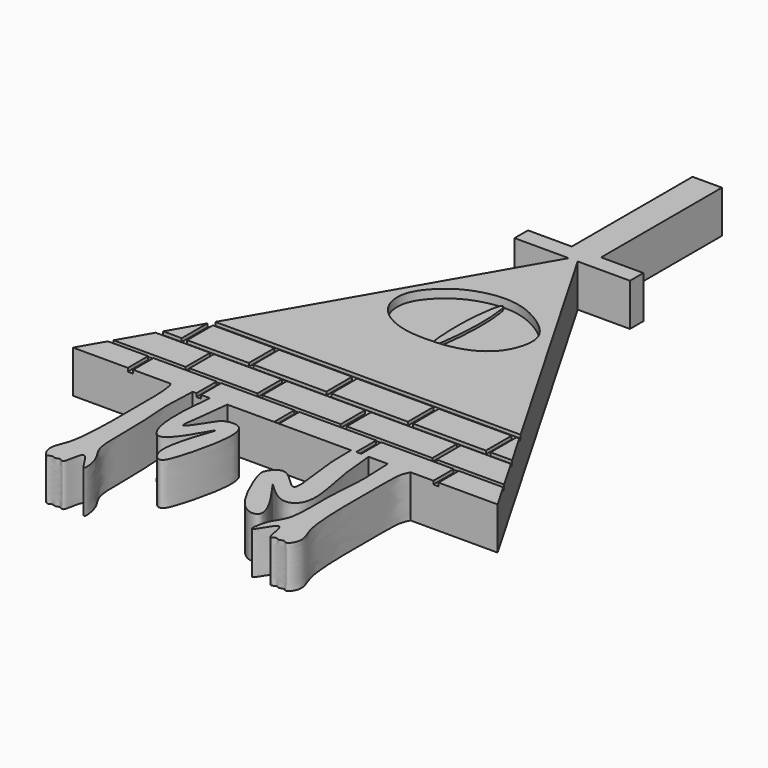
from build123d import *

# Parameters (mm, degrees)
F0_W     = 5.1555768587
F0_H     = 1.9764080644
F0_W_2   = 4.9801938003
F0_W_3   = 3.4587095724
F0_H_2   = 17.7876465023
F1_DEPTH = 5
F3_DEPTH = 1
F5_DEPTH = 0.3
F6_W     = 0.6202943623
F6_H     = 2.9812904685
F6_W_2   = 0.4511214793
F6_H_2   = 3.5945932627
F6_W_3   = 0.6402105058
F6_H_3   = 3.7887892984
F6_W_4   = 0.4784865305
F6_W_5   = 0.5582347512
F7_DEPTH = 0.4
F8_W     = 0.5327984691
F8_H     = 3.7887892984
F8_W_2   = 0.5985439639
F8_W_3   = 0.5867718719
F8_H_2   = 3.5876911134
F8_W_4   = 0.5364771932
F8_H_3   = 3.0344488973
F8_W_5   = 0.5700066104
F8_H_4   = 3.0009191614
F8_W_6   = 0.5867723376
F8_H_5   = 3.0009190596
F8_W_7   = 0.6035361439
F8_H_6   = 3.0344488368
F8_W_8   = 0.7041264325
F8_H_7   = 3.8559294771
F8_W_9   = 0.6203018129
F8_H_8   = 4.2415224016
F9_DEPTH = 0.4


with BuildPart() as f1:
    # F0 (on Top) → F1 (new body)
    with BuildSketch(Plane.XY):
        Polygon((-0.5237962453, 42.392436415), (0, 43.2997421549), (-0.5239071529, 42.392436415), align=None)
        Polygon((-0.5239071529, 42.392436415), (0, 43.2997421549), (0.5239071529, 42.392436415), (1.7018496292, 42.392436415), (1.7018496292, 44.3688444793), (-1.7568599433, 44.3688444793), (-1.7568599433, 42.392436415), align=None)
        Polygon((0.5239071529, 42.392436415), (0, 43.2997421549), (-0.5237962453, 42.392436415), align=None)
        Polygon((25.0026464462, 0), (0.5239071529, 42.392436415), (-0.5237962453, 42.392436415), (-24.9973535538, 0), (-13.5034514803, 0), (-10.9088107712, 0), (-8.9024212211, 0), (-6.8273255602, 0), (7.7385172022, 0), (9.8083302301, 0), (12.0734038177, 0), (14.7498230277, 0), align=None)
        with Locations((-4.3346483726, 43.3806404471)):
            Rectangle(F0_W, F0_H)
        with Locations((4.1919465293, 43.3806404471)):
            Rectangle(F0_W_2, F0_H)
        with Locations((-0.027505157, 53.2626677305)):
            Rectangle(F0_W_3, F0_H_2)
        with BuildLine():
            add(Edge.make_bspline(
                [(12.0734038177, 0), (12.1700652269, -1.477826255), (12.3366505249, -4.4402676188), (11.7614927275, -8.1640583262), (12.1795675256, -14.2684113404), (10.5152433863, -15.5421516446), (10.0406614974, -19.3586837546), (12.4083061102, -14.1425769065), (12.4477018974, -18.6558139703), (13.2736578918, -17.7631134849), (13.6796971655, -18.1825728083), (14.2083416361, -17.7870688496), (14.6609292387, -18.3934551385), (15.6486915503, -16.8855128183), (14.817234783, -15.2059113737), (14.4250365101, -13.46535209), (14.1804166756, -9.6145735029), (14.3029197368, -4.6979299564), (14.165607463, -1.2632768604), (14.5821918319, -0.3549519845), (14.7341013093, -0.0288623031), (14.7498230277, 0)],
                knots=[0.0004319384, 0.0004319384, 0.0004319384, 0.0004319384, 0.0782424273, 0.153800604, 0.2427449656, 0.3000032199, 0.3505753589, 0.4097252157, 0.4655100081, 0.493073811, 0.518239166, 0.5450078504, 0.5701679733, 0.6129620927, 0.6633566361, 0.7130603053, 0.7861146423, 0.8718565462, 0.9403422504, 0.9804530964, 0.9849282254, 0.9849282254, 0.9849282254, 0.9849282254], degree=3))
            Line((14.7498230277, 0), (12.0734038177, 0))
        make_face()
        with BuildLine():
            Line((-10.9088107712, 0), (-13.5034514803, 0))
            add(Edge.make_bspline(
                [(-10.9088107712, 0), (-11.0057075196, -1.6076779232), (-11.1745404211, -4.536562176), (-10.5977952902, -8.3057694955), (-11.0154517537, -14.4028255245), (-9.3512022225, -15.6778672361), (-8.8766049723, -19.4941313226), (-11.2442541145, -14.2781038128), (-11.2836488855, -18.7913221382), (-12.10960486, -17.8986232734), (-12.5156445522, -18.3180843348), (-13.0442873295, -17.922572153), (-13.4968823807, -18.5289949649), (-14.4845941721, -17.0208047683), (-13.6533758342, -15.3423732197), (-13.2601345759, -13.5966963269), (-13.0215974359, -9.7757636652), (-13.1178407814, -4.7302717046), (-13.0511875796, -1.6114246319), (-13.3506863225, -0.1622526976), (-13.5034514803, 0)],
                knots=[0.0002898926, 0.0002898926, 0.0002898926, 0.0002898926, 0.0790212957, 0.1542290848, 0.2427609827, 0.299753712, 0.3500913317, 0.4089668916, 0.4644929919, 0.4919289726, 0.5169776277, 0.5436221771, 0.5686656244, 0.6112612937, 0.6614221413, 0.7108953186, 0.7836108791, 0.8689551702, 0.937123284, 0.9792128244, 0.9792128244, 0.9792128244, 0.9792128244], degree=3))
        make_face()
        with BuildLine():
            add(Edge.make_bspline(
                [(7.7385172022, 0), (7.7486716886, -1.3398712462), (7.6865955293, -3.8544560709), (9.0858695098, -11.0379879346), (5.7069449364, -6.1300650339), (4.0136453382, -8.1748440604), (4.0847936301, -9.2620602996), (6.6505176586, -15.8038164307), (10.6846310882, -15.3443197035), (4.5680391502, -7.6384667145), (8.7351283912, -12.4720105519), (11.8246521156, -10.8170377409), (10.0950807766, -4.6122172742), (9.937490037, -1.2172522744), (9.8083302301, 0)],
                knots=[0, 0, 0, 0, 0.0942536296, 0.1884129262, 0.2664747356, 0.3244837685, 0.3736115745, 0.4885065129, 0.545680206, 0.6515452333, 0.72664808, 0.7947713482, 0.9035091315, 1, 1, 1, 1], degree=3))
            Line((9.8083302301, 0), (7.7385172022, 0))
        make_face()
        with BuildLine():
            Line((-6.8273255602, 0), (-8.9024212211, 0))
            add(Edge.make_bspline(
                [(-8.9024212211, 0), (-9.1907642785, -3.0033720609), (-9.5135077937, -7.3050672033), (-7.2027376886, -10.0410421761), (-2.7884020038, -1.0444534524), (-6.885632451, -10.7517584556), (-4.7049415835, -13.0508549855), (-3.6579539996, -10.6032838109), (-1.6590676451, -2.3609450623), (-4.9533419054, -2.562990685), (-5.6218491735, -3.3020651782), (-8.2684232058, -7.7625287315), (-7.0797335951, -3.2640721874), (-6.8273255602, 0)],
                knots=[0, 0, 0, 0, 0.1316959772, 0.1952895732, 0.3015222484, 0.4189816161, 0.488553194, 0.5566423207, 0.6880279836, 0.752099547, 0.8053020826, 0.8852667817, 1, 1, 1, 1], degree=3))
        make_face()
    extrude(amount=F1_DEPTH)

    # F2 (on face) → F3 (cut)
    with BuildSketch(Plane.XY.offset(5)):
        with BuildLine():
            add(Edge.make_bspline(
                [(-7.9532610252, 26.9699245691), (-7.8323923244, 27.8957184535), (-6.8166573395, 29.6126143534), (-4.1432819529, 31.77771641), (-0.0632411183, 32.7573994407), (3.446330671, 31.8864626716), (6.6598570974, 29.6150317806), (7.5492875013, 27.2985029154), (6.4390274003, 23.8318835876), (3.282491896, 21.9053190537), (-0.4046085708, 21.5251999201), (-4.110036634, 21.732940582), (-7.5160687452, 23.7169960292), (-8.0794283796, 26.0035456449), (-7.9532610252, 26.9699245691)],
                knots=[0, 0, 0, 0, 0.0754950122, 0.15896651, 0.2500422161, 0.3363290294, 0.4240383722, 0.4924871028, 0.5749449679, 0.6600543184, 0.7468430609, 0.8341844508, 0.9211954303, 1, 1, 1, 1], degree=3))
        make_face()
    extrude(amount=-F3_DEPTH, mode=Mode.SUBTRACT)

    # F6 (on face) → F7 (cut)
    with BuildSketch(Plane.XY.offset(5)):
        Polygon((-22.9938786092, 3.470365306), (-23.276226171, 2.9812904685), (-18.5381863266, 2.9812904685), (-17.9178919643, 2.9812904685), (-10.4461899027, 2.9812904685), (-9.9056159966, 2.9812904685), (-1.3191275066, 2.9812904685), (-0.7608930464, 2.9812904685), (8.3303563297, 2.9812904685), (8.8885920122, 2.9812904685), (17.4614805728, 2.9812904685), (18.019715324, 2.9812904685), (23.2811546352, 2.9812904685), (22.9987472896, 3.470365306), (15.0291733444, 3.470365306), (14.5506868139, 3.470365306), (4.4625885785, 3.470365306), (3.7371646613, 3.470365306), (-5.4556559771, 3.470365306), (-6.0477536172, 3.470365306), (-14.0551645309, 3.470365306), (-14.5062860101, 3.470365306), align=None)
        with Locations((-18.2280391455, 1.4906452343)):
            Rectangle(F6_W, F6_H)
        with Locations((-14.2807252705, 5.2676619373)):
            Rectangle(F6_W_2, F6_H_2)
        Polygon((-20.918685682, 7.0649585687), (-14.5062860101, 7.0649585687), (-14.0551645309, 7.0649585687), (-6.0477536172, 7.0649585687), (-5.4556559771, 7.0649585687), (3.7371646613, 7.0649585687), (4.4625885785, 7.0649585687), (14.5506868139, 7.0649585687), (15.0291733444, 7.0649585687), (20.923114965, 7.0649585687), (20.5523952678, 7.7069732983), (18.019715324, 7.7069732983), (17.4614805728, 7.7069732983), (8.8885920122, 7.7069732983), (8.3303563297, 7.7069732983), (-0.7608930464, 7.7069732983), (-1.3191275066, 7.7069732983), (-9.9056159966, 7.7069732983), (-10.4461899027, 7.7069732983), (-17.7205298096, 7.7069732983), (-18.3607403154, 7.7069732983), (-20.5480444637, 7.7069732983), align=None)
        with Locations((-18.0406350625, 9.6013679476)):
            Rectangle(F6_W_3, F6_H_3)
        Polygon((-17.9717051929, 12.1696387516), (-18.3607403154, 11.4957625968), (-17.7205298096, 11.4957625968), (-10.4461899027, 11.4957625968), (-9.9056159966, 11.4957625968), (-1.3191275066, 11.4957625968), (-0.7608930464, 11.4957625968), (8.3303563297, 11.4957625968), (8.8885920122, 11.4957625968), (17.4614805728, 11.4957625968), (18.019715324, 11.4957625968), (18.3646279839, 11.4957625968), (17.9755104878, 12.1696387516), align=None)
        with Locations((14.7899300791, 5.2676619373)):
            Rectangle(F6_W_4, F6_H_2)
        with Locations((17.7405979484, 9.6013679476)):
            Rectangle(F6_W_5, F6_H_3)
    extrude(amount=-F7_DEPTH, mode=Mode.SUBTRACT)

    # F8 (on face) → F9 (cut)
    with BuildSketch(Plane.XY.offset(5)):
        with Locations((-10.1962490007, 9.6013679476)):
            Rectangle(F8_W, F8_H)
        with Locations((-1.0303525778, 9.6013679476)):
            Rectangle(F8_W_2, F8_H)
        with Locations((-5.7615952101, 5.2641718648)):
            Rectangle(F8_W_3, F8_H_2)
        with Locations((-10.1959146559, 1.5172142564)):
            Rectangle(F8_W_4, F8_H_3)
        with Locations((-1.0255077214, 1.5172143867)):
            Rectangle(F8_W_5, F8_H_4)
        with Locations((8.6226984859, 1.5339791753)):
            Rectangle(F8_W_6, F8_H_5)
        with Locations((17.7511936054, 1.5004493162)):
            Rectangle(F8_W_7, F8_H_6)
        with Locations((4.1045551188, 5.2306420403)):
            Rectangle(F8_W_8, F8_H_7)
        with Locations((8.5891690105, 9.6817258745)):
            Rectangle(F8_W_9, F8_H_8)
    extrude(amount=-F9_DEPTH, mode=Mode.SUBTRACT)


with BuildPart() as f5:
    # F4 (on face) → F5 (new body)
    with BuildSketch(Plane.XY.offset(4)):
        with BuildLine():
            add(Edge.make_bspline(
                [(-0.1536923519, 32.1692787111), (-0.1095518936, 32.1771346974), (0.178884501, 32.152902573), (0.6504543453, 28.0375019528), (0.0016778454, 22.2091091532), (-0.348507446, 22.0219583753), (-0.8226459209, 22.143646299), (-1.1520672278, 28.0552978302), (-0.4793909326, 32.0216608596), (-0.20468312, 32.1602035272), (-0.1536923519, 32.1692787111)],
                knots=[0, 0, 0, 0, 0.0356219853, 0.2249280493, 0.4544889422, 0.4967781485, 0.5407828675, 0.7690005902, 0.9588497161, 1, 1, 1, 1], degree=3))
        make_face()
    extrude(amount=F5_DEPTH)


solid = Compound([f1.part, f5.part])
